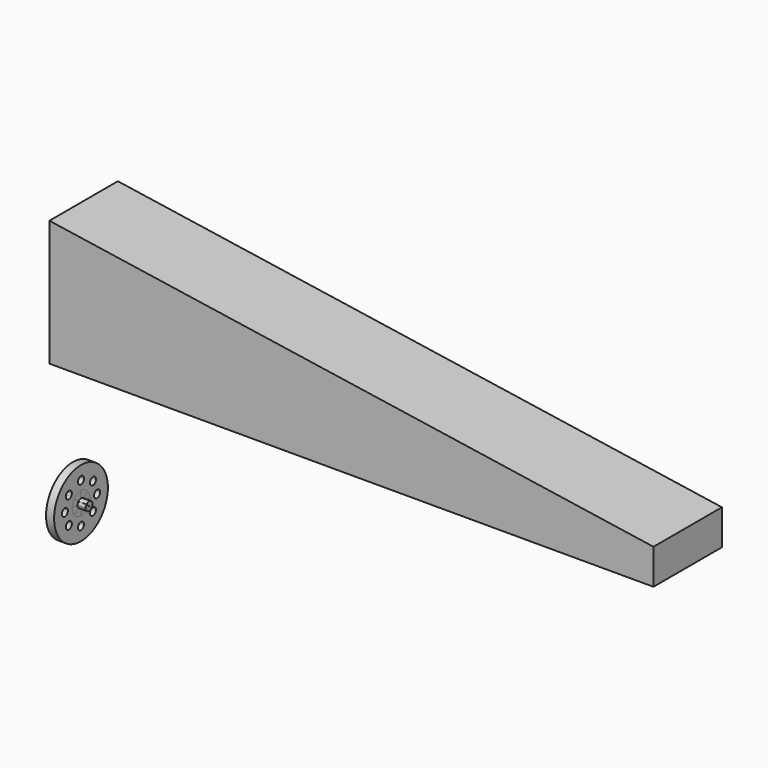
from build123d import *

# Parameters (mm, degrees)
F1_DEPTH  = 43.18
F2_R      = 9.525
F3_DEPTH  = 53.594
F5_DEPTH  = 8.128
F4_R      = 16.9741536912
F4_R_2    = 1.905
F6_DEPTH  = 4.064
F7_DEPTH  = 4.064
F8_DEPTH  = 4.064
F9_DEPTH  = 4.064
F10_DEPTH = 4.064
F11_DEPTH = 4.064
F12_DEPTH = 4.064
F13_DEPTH = 4.064
F14_DEPTH = 4.064
F15_DEPTH = 2.032


with BuildPart() as f1:
    # F0 (on Front) → F1 (new body)
    with BuildSketch(Plane.XZ):
        Polygon((0, 63.5), (0, 0), (304.8, 0), (304.8, 17.78), align=None)
    extrude(amount=-F1_DEPTH)

    # F2 (on face) → F3 (cut)
    with BuildSketch(Plane(origin=(0, 0, 0), x_dir=(0, -1, 0), z_dir=(-1, 0, 0))):
        with Locations((-21.59, 31.75)):
            Circle(F2_R)
    extrude(amount=-F3_DEPTH, mode=Mode.SUBTRACT)


with BuildPart() as f5:
    # F4 (on Right) → F5 (new body)
    with BuildSketch(Plane.YZ):
        with BuildLine():
            ThreePointArc((14.8484487383, -68.8197386136), (15.7133385968, -68.6389313577), (16.43336661, -68.1267932988))
            Line((16.43336661, -68.1267932988), (14.8484487383, -66.7216335196))
            Line((14.8484487383, -66.7216335196), (14.8484487383, -68.8197386136))
        make_face()
        with BuildLine():
            ThreePointArc((13.2366369691, -68.0971730258), (13.9652672439, -68.6308328875), (14.8484487383, -68.8197386136))
            Line((14.8484487383, -68.8197386136), (14.8484487383, -66.7216335196))
            Line((14.8484487383, -66.7216335196), (14.8182970344, -66.6949015593))
            Line((14.8182970344, -66.6949015593), (13.2366369691, -68.0971730258))
        make_face()
    extrude(amount=F5_DEPTH)


with BuildPart() as f5b:
    # F4 (on Right) → F5, piece 2 (new body)
    with BuildSketch(Plane.YZ):
        with BuildLine():
            Line((14.8141250754, -66.6912027752), (14.7797637203, -66.6607386136))
            Line((14.7797637203, -66.6607386136), (12.6894487383, -66.6607386136))
            ThreePointArc((12.6894487383, -66.6607386136), (12.8300988197, -67.4272531966), (13.2337235006, -68.0938971557))
            Line((13.2337235006, -68.0938971557), (14.8141250754, -66.6912027752))
        make_face()
        with BuildLine():
            Line((12.6894487383, -66.6607386136), (14.7797637203, -66.6607386136))
            Line((14.7797637203, -66.6607386136), (13.203074548, -65.2628742518))
            ThreePointArc((13.203074548, -65.2628742518), (12.8219192077, -65.9161185349), (12.6894487383, -66.6607386136))
        make_face()
    extrude(amount=F5_DEPTH)


with BuildPart() as f5c:
    # F4 (on Right) → F5, piece 3 (new body)
    with BuildSketch(Plane.YZ):
        with BuildLine():
            Line((14.8484487383, -66.6607386136), (14.8484487383, -64.5017386136))
            ThreePointArc((14.8484487383, -64.5017386136), (13.9583180842, -64.6937743489), (13.2265356419, -65.2357196987))
            Line((13.2265356419, -65.2357196987), (14.8484487383, -66.6607386136))
        make_face()
        with BuildLine():
            Line((14.8568303485, -66.6607386136), (16.4676379723, -65.2326254442))
            ThreePointArc((16.4676379723, -65.2326254442), (15.7367011425, -64.692925445), (14.8484487383, -64.5017386136))
            Line((14.8484487383, -64.5017386136), (14.8484487383, -66.6607386136))
            Line((14.8484487383, -66.6607386136), (14.8568303485, -66.6607386136))
        make_face()
        with BuildLine():
            Line((14.8568303485, -66.6607386136), (17.0074487383, -66.6607386136))
            ThreePointArc((17.0074487383, -66.6607386136), (16.8679920723, -65.8973738764), (16.4676379723, -65.2326254442))
            Line((16.4676379723, -65.2326254442), (14.8568303485, -66.6607386136))
        make_face()
        with BuildLine():
            ThreePointArc((16.4575149968, -68.1002478271), (16.8652847569, -67.431227727), (17.0074487383, -66.6607386136))
            Line((17.0074487383, -66.6607386136), (14.8568303485, -66.6607386136))
            Line((14.8568303485, -66.6607386136), (14.8526206226, -66.6644708812))
            Line((14.8526206226, -66.6644708812), (16.4575149968, -68.1002478271))
        make_face()
    extrude(amount=F5_DEPTH)


with BuildPart() as f6:
    # F4 (on Right) → F6 (new body)
    with BuildSketch(Plane.YZ):
        with Locations((14.8484487383, -66.6607386136)):
            Circle(F4_R)
        with BuildLine():
            ThreePointArc((19.0334446835, -62.9578271998), (20.0739392101, -64.680841311), (20.4364487383, -66.6607386136))
            ThreePointArc((20.4364487383, -66.6607386136), (20.0684949042, -68.6549457307), (19.0130908192, -70.3865271661))
            Line((19.0130908192, -70.3865271661), (21.000913203, -72.1648806808))
            ThreePointArc((21.000913203, -72.1648806808), (23.1005208841, -71.6554746762), (24.3256775488, -73.4350358691))
            ThreePointArc((24.3256775488, -73.4350358691), (21.744826341, -75.2161170422), (20.9952312023, -72.171260686))
            Line((20.9952312023, -72.171260686), (18.9993908505, -70.4017844007))
            ThreePointArc((18.9993908505, -70.4017844007), (17.1200979346, -71.7661625851), (14.8484487383, -72.2487386136))
            ThreePointArc((14.8484487383, -72.2487386136), (12.5585387057, -71.7579982737), (10.6708302578, -70.3719712702))
            Line((10.6708302578, -70.3719712702), (8.6413628665, -72.171260686))
            ThreePointArc((8.6413628665, -72.171260686), (8.9969976931, -72.7591846614), (9.1209165201, -73.4350358691))
            ThreePointArc((9.1209165201, -73.4350358691), (5.435019533, -74.1113722659), (8.6406740827, -72.1704842144))
            Line((8.6406740827, -72.1704842144), (10.6691598878, -70.3700901343))
            ThreePointArc((10.6691598878, -70.3700901343), (9.624484243, -68.6446587107), (9.2604487383, -66.6607386136))
            ThreePointArc((9.2604487383, -66.6607386136), (9.6159044991, -64.6995591765), (10.6370503075, -62.9878831499))
            Line((10.6370503075, -62.9878831499), (8.6413628665, -61.2185424325))
            ThreePointArc((8.6413628665, -61.2185424325), (5.434835347, -59.2789160417), (9.1209165201, -59.9547672494))
            ThreePointArc((9.1209165201, -59.9547672494), (8.9985087479, -60.6266228508), (8.647016311, -61.2121368802))
            Line((8.647016311, -61.2121368802), (10.6505560183, -62.9724543633))
            ThreePointArc((10.6505560183, -62.9724543633), (12.544581163, -61.5697722814), (14.8484487383, -61.0727386136))
            ThreePointArc((14.8484487383, -61.0727386136), (17.1434296772, -61.5657600572), (19.0334446835, -62.9578271998))
        make_face(mode=Mode.SUBTRACT)
        with BuildLine():
            ThreePointArc((16.7534487383, -76.8207386136), (13.5014103201, -78.1677770318), (14.8484487383, -74.9157386136))
            ThreePointArc((14.8484487383, -74.9157386136), (16.1954871565, -75.4737001954), (16.7534487383, -76.8207386136))
        make_face(mode=Mode.SUBTRACT)
        with Locations((4.6884487383, -66.6607386136)):
            Circle(F4_R_2, mode=Mode.SUBTRACT)
        with BuildLine():
            ThreePointArc((24.3256775488, -59.9547672494), (23.0965287565, -61.7358484225), (20.9952312023, -61.2185424325))
            ThreePointArc((20.9952312023, -61.2185424325), (21.744826341, -58.1736860764), (24.3256775488, -59.9547672494))
        make_face(mode=Mode.SUBTRACT)
        with BuildLine():
            ThreePointArc((26.9134487383, -66.6607386136), (25.0084487383, -68.5657386136), (23.1034487383, -66.6607386136))
            ThreePointArc((23.1034487383, -66.6607386136), (25.0084487383, -64.7557386136), (26.9134487383, -66.6607386136))
        make_face(mode=Mode.SUBTRACT)
        with BuildLine():
            ThreePointArc((16.7534487383, -56.5007386136), (16.1954871565, -57.8477770318), (14.8484487383, -58.4057386136))
            ThreePointArc((14.8484487383, -58.4057386136), (13.5014103201, -55.1537001954), (16.7534487383, -56.5007386136))
        make_face(mode=Mode.SUBTRACT)
    extrude(amount=F6_DEPTH)


with BuildPart() as f7:
    # F4 (on Right) → F7 (new body)
    with BuildSketch(Plane.YZ):
        with BuildLine():
            ThreePointArc((10.6708302578, -70.3719712702), (12.5585387057, -71.7579982737), (14.8484487383, -72.2487386136))
            Line((14.8484487383, -72.2487386136), (14.8484487383, -68.8197386136))
            ThreePointArc((14.8484487383, -68.8197386136), (13.9652672439, -68.6308328875), (13.2366369691, -68.0971730258))
            Line((13.2366369691, -68.0971730258), (10.6708302578, -70.3719712702))
        make_face()
    extrude(amount=F7_DEPTH)


with BuildPart() as f8:
    # F4 (on Right) → F8 (new body)
    with BuildSketch(Plane.YZ):
        with BuildLine():
            ThreePointArc((14.8484487383, -72.2487386136), (17.1200979346, -71.7661625851), (18.9993908505, -70.4017844007))
            Line((18.9993908505, -70.4017844007), (16.43336661, -68.1267932988))
            ThreePointArc((16.43336661, -68.1267932988), (15.7133385968, -68.6389313577), (14.8484487383, -68.8197386136))
            Line((14.8484487383, -68.8197386136), (14.8484487383, -72.2487386136))
        make_face()
    extrude(amount=F8_DEPTH)


with BuildPart() as f9:
    # F4 (on Right) → F9 (new body)
    with BuildSketch(Plane.YZ):
        with BuildLine():
            Line((17.0074487383, -66.6607386136), (20.4364487383, -66.6607386136))
            ThreePointArc((20.4364487383, -66.6607386136), (20.0739392101, -64.680841311), (19.0334446835, -62.9578271998))
            Line((19.0334446835, -62.9578271998), (16.4676379723, -65.2326254442))
            ThreePointArc((16.4676379723, -65.2326254442), (16.8679920723, -65.8973738764), (17.0074487383, -66.6607386136))
        make_face()
    extrude(amount=F9_DEPTH)


with BuildPart() as f10:
    # F4 (on Right) → F10 (new body)
    with BuildSketch(Plane.YZ):
        with BuildLine():
            ThreePointArc((19.0130908192, -70.3865271661), (20.0684949042, -68.6549457307), (20.4364487383, -66.6607386136))
            Line((20.4364487383, -66.6607386136), (17.0074487383, -66.6607386136))
            ThreePointArc((17.0074487383, -66.6607386136), (16.8652847569, -67.431227727), (16.4575149968, -68.1002478271))
            Line((16.4575149968, -68.1002478271), (19.0130908192, -70.3865271661))
        make_face()
    extrude(amount=F10_DEPTH)


with BuildPart() as f11:
    # F4 (on Right) → F11 (new body)
    with BuildSketch(Plane.YZ):
        with BuildLine():
            Line((14.8484487383, -64.5017386136), (14.8484487383, -61.0727386136))
            ThreePointArc((14.8484487383, -61.0727386136), (12.544581163, -61.5697722814), (10.6505560183, -62.9724543633))
            Line((10.6505560183, -62.9724543633), (13.2265356419, -65.2357196987))
            ThreePointArc((13.2265356419, -65.2357196987), (13.9583180842, -64.6937743489), (14.8484487383, -64.5017386136))
        make_face()
    extrude(amount=F11_DEPTH)


with BuildPart() as f12:
    # F4 (on Right) → F12 (new body)
    with BuildSketch(Plane.YZ):
        with BuildLine():
            Line((16.4676379723, -65.2326254442), (19.0334446835, -62.9578271998))
            ThreePointArc((19.0334446835, -62.9578271998), (17.1434296772, -61.5657600572), (14.8484487383, -61.0727386136))
            Line((14.8484487383, -61.0727386136), (14.8484487383, -64.5017386136))
            ThreePointArc((14.8484487383, -64.5017386136), (15.7367011425, -64.692925445), (16.4676379723, -65.2326254442))
        make_face()
    extrude(amount=F12_DEPTH)


with BuildPart() as f13:
    # F4 (on Right) → F13 (new body)
    with BuildSketch(Plane.YZ):
        with BuildLine():
            Line((13.203074548, -65.2628742518), (10.6370503075, -62.9878831499))
            ThreePointArc((10.6370503075, -62.9878831499), (9.6159044991, -64.6995591765), (9.2604487383, -66.6607386136))
            Line((9.2604487383, -66.6607386136), (12.6894487383, -66.6607386136))
            ThreePointArc((12.6894487383, -66.6607386136), (12.8219192077, -65.9161185349), (13.203074548, -65.2628742518))
        make_face()
    extrude(amount=F13_DEPTH)


with BuildPart() as f14:
    # F4 (on Right) → F14 (new body)
    with BuildSketch(Plane.YZ):
        with BuildLine():
            Line((12.6894487383, -66.6607386136), (9.2604487383, -66.6607386136))
            ThreePointArc((9.2604487383, -66.6607386136), (9.624484243, -68.6446587107), (10.6691598878, -70.3700901343))
            Line((10.6691598878, -70.3700901343), (13.2337235006, -68.0938971557))
            ThreePointArc((13.2337235006, -68.0938971557), (12.8300988197, -67.4272531966), (12.6894487383, -66.6607386136))
        make_face()
    extrude(amount=F14_DEPTH)


with BuildPart() as f15:
    # F15 (new): a face of the model
    f15_faces = [f5c.part.faces().sort_by_distance(p)[0] for p in [
        (0, 15.4545911791, -65.9770540202),
    ]]
    extrude(f15_faces, amount=F15_DEPTH)


with BuildPart() as f15b:
    # F15#2 (new): a face of the model
    f15_2_faces = [f5.part.faces().sort_by_distance(p)[0] for p in [
        (0, 14.8306208917, -67.9502157225),
    ]]
    extrude(f15_2_faces, amount=F15_DEPTH)


with BuildPart() as f15c:
    # F15#3 (new): a face of the model
    f15_3_faces = [f5b.part.faces().sort_by_distance(p)[0] for p in [
        (0, 13.5174077991, -66.6820471258),
    ]]
    extrude(f15_3_faces, amount=F15_DEPTH)


solid = Compound([f1.part, f5.part, f5b.part, f5c.part, f6.part, f7.part, f8.part, f9.part, f10.part, f11.part, f12.part, f13.part, f14.part, f15.part, f15b.part, f15c.part])
